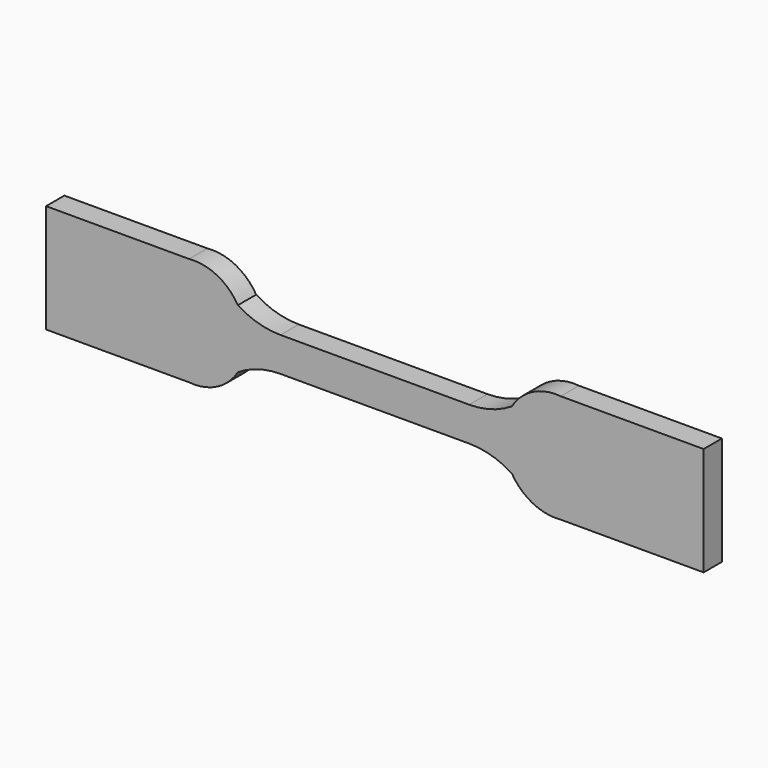
from build123d import *

# Parameters (mm, degrees)
F1_DEPTH = 2


with BuildPart() as f1:
    # F0 (on Front) → F1 (new body, symmetric)
    with BuildSketch(Plane.XZ):
        with BuildLine():
            Line((16.4973, 2.9972), (0, 2.9972))
            Line((0, 2.9972), (-16.4973, 2.9972))
            ThreePointArc((-16.4973, 2.9972), (-20.381579, 3.547021), (-23.960664, 5.153283))
            ThreePointArc((-23.960664, 5.153283), (-27.598642, 8.566751), (-32.4993, 9.4996))
            Line((-32.4993, 9.4996), (-57.5056, 9.4996))
            Line((-57.5056, 9.4996), (-57.5056, 0))
            Line((-57.5056, 0), (-57.5056, -9.4996))
            Line((-57.5056, -9.4996), (-32.4993, -9.4996))
            ThreePointArc((-32.4993, -9.4996), (-27.598642, -8.566751), (-23.960664, -5.153283))
            ThreePointArc((-23.960664, -5.153283), (-20.381579, -3.547021), (-16.4973, -2.9972))
            Line((-16.4973, -2.9972), (0, -2.9972))
            Line((0, -2.9972), (16.4973, -2.9972))
            ThreePointArc((16.4973, -2.9972), (20.381579, -3.547021), (23.960664, -5.153283))
            ThreePointArc((23.960664, -5.153283), (27.598642, -8.566751), (32.4993, -9.4996))
            Line((32.4993, -9.4996), (57.5056, -9.4996))
            Line((57.5056, -9.4996), (57.5056, 0))
            Line((57.5056, 0), (57.5056, 9.4996))
            Line((57.5056, 9.4996), (32.4993, 9.4996))
            ThreePointArc((32.4993, 9.4996), (27.598642, 8.566751), (23.960664, 5.153283))
            ThreePointArc((23.960664, 5.153283), (20.381579, 3.547021), (16.4973, 2.9972))
        make_face()
    extrude(amount=F1_DEPTH, both=True)


solid = f1.part
